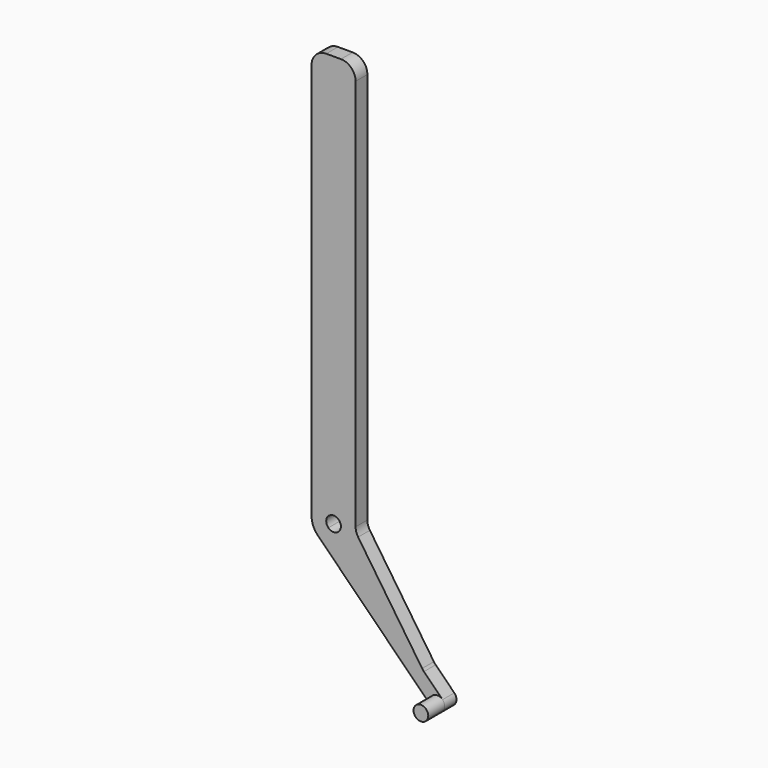
from build123d import *

# Parameters (mm, degrees)
F1_DEPTH = 6.35
F2_R     = 3.175
F3_DEPTH = 8.89


with BuildPart() as f1:
    # F0 (on Front) → F1 (new body)
    with BuildSketch(Plane.XZ):
        with BuildLine():
            ThreePointArc((2.2450640303, 2.2450640303), (2.9333175157, 1.2150198978), (3.175, 0))
            ThreePointArc((3.175, 0), (1.2150198978, -2.9333175157), (-2.2450640303, -2.2450640303))
            Line((-2.2450640303, -2.2450640303), (-6.7351920908, -6.7351920908))
            Line((-6.7351920908, -6.7351920908), (42.6051664613, -56.0755506429))
            ThreePointArc((42.6051664613, -56.0755506429), (47.0952942961, -56.0755499657), (47.0952940704, -51.5854221309))
            Line((47.0952940704, -51.5854221309), (39.0388281543, -43.5289562148))
            ThreePointArc((39.0388281543, -43.5289562148), (38.6295458387, -43.0784169906), (38.2652810646, -42.5907605738))
            Line((38.2652810646, -42.5907605738), (10.6113248497, -1.6098451326))
            ThreePointArc((10.6113248497, -1.6098451326), (9.8026513109, 0.0849170206), (9.525, 1.9420872869))
            Line((9.525, 1.9420872869), (9.525, 171.45))
            ThreePointArc((9.525, 171.45), (7.6651280605, 175.9401280605), (3.175, 177.8))
            Line((3.175, 177.8), (-3.175, 177.8))
            ThreePointArc((-3.175, 177.8), (-7.6651280605, 175.9401280605), (-9.525, 171.45))
            Line((-9.525, 171.45), (-9.525, 0))
            ThreePointArc((-9.525, 0), (-3.6450596933, 8.7999525472), (6.7351920908, 6.7351920908))
            Line((6.7351920908, 6.7351920908), (2.2450640303, 2.2450640303))
        make_face()
        with BuildLine():
            ThreePointArc((-2.2450640303, -2.2450640303), (-2.2450640303, 2.2450640303), (2.2450640303, 2.2450640303))
            Line((2.2450640303, 2.2450640303), (6.7351920908, 6.7351920908))
            ThreePointArc((6.7351920908, 6.7351920908), (-3.6450596933, 8.7999525472), (-9.525, 0))
            ThreePointArc((-9.525, 0), (-8.7999525472, -3.6450596933), (-6.7351920908, -6.7351920908))
            Line((-6.7351920908, -6.7351920908), (-2.2450640303, -2.2450640303))
        make_face()
    extrude(amount=F1_DEPTH)

    # F2 (on face) → F3 (join)
    with BuildSketch(Plane.XZ.offset(6.35)):
        with Locations((44.8502300401, -53.8304861612)):
            Circle(F2_R)
    extrude(amount=F3_DEPTH)


solid = f1.part
